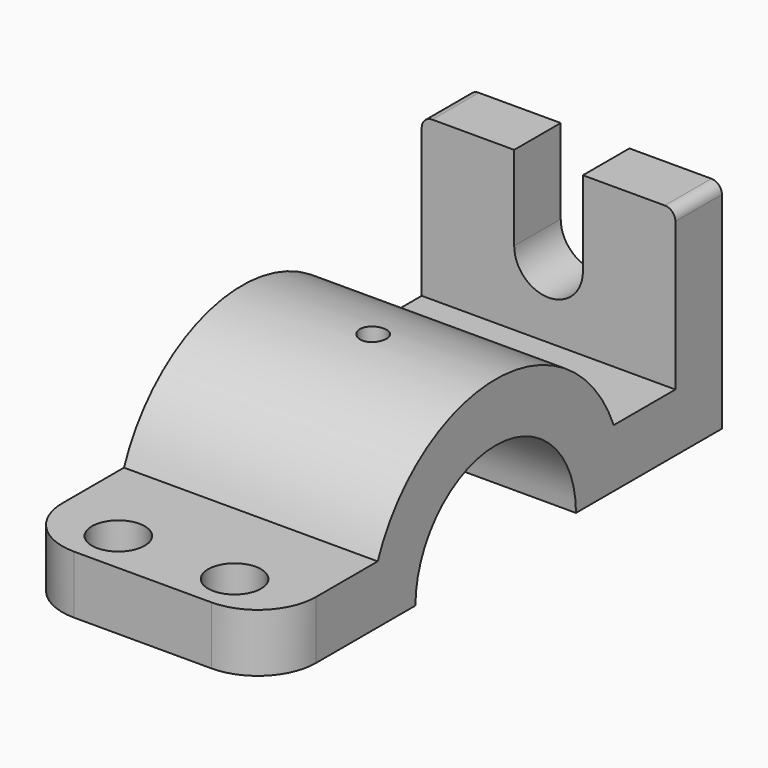
from build123d import *

# Parameters (mm, degrees)
F1_DEPTH  = 609.6
F2_R      = 50.8
F4_DEPTH  = 279.4
F5_R      = 127
F6_DEPTH  = 279.401
F7_DEPTH  = 25.4
F8_R      = 279.4
F10_R     = 63.5
F11_DEPTH = 762.001


with BuildPart() as f1:
    # F0 (on Right) → F1 (new body, symmetric)
    with BuildSketch(Plane.YZ):
        with BuildLine():
            Line((0, 279.4), (0, 0))
            Line((0, 0), (596.9, 0))
            Line((596.9, 0), (876.681, 0))
            ThreePointArc((876.681, 0), (1358.9, 482.219), (1841.119, 0))
            Line((1841.119, 0), (2120.9, 0))
            Line((2120.9, 0), (2438.4, 0))
            Line((2438.4, 0), (2717.8, 0))
            Line((2717.8, 0), (2717.8, 279.4))
            Line((2717.8, 279.4), (2717.8, 1041.4))
            Line((2717.8, 1041.4), (2438.4, 1041.4))
            Line((2438.4, 1041.4), (2438.4, 279.4))
            Line((2438.4, 279.4), (2067.8285154372, 279.4))
            ThreePointArc((2067.8285154372, 279.4), (1358.9, 762), (649.9714845628, 279.4))
            Line((649.9714845628, 279.4), (0, 279.4))
        make_face()
    extrude(amount=F1_DEPTH, both=True)

    # F2
    f2_edges = [f1.edges().sort_by_distance(p)[0] for p in [
        (609.6, 2578.1, 1041.4),
        (-609.6, 2578.1, 1041.4),
    ]]
    fillet(f2_edges, radius=F2_R)

    # F3 (on face) → F4 (cut, through all)
    with BuildSketch(Plane(origin=(0, 2717.8, 0), x_dir=(-1, 0, 0), z_dir=(0, 1, 0))):
        with BuildLine():
            Line((165.1, 1041.4), (-165.1, 1041.4))
            Line((-165.1, 1041.4), (-165.1, 635))
            ThreePointArc((-165.1, 635), (0, 469.9), (165.1, 635))
            Line((165.1, 635), (165.1, 1041.4))
        make_face()
    extrude(amount=-F4_DEPTH, mode=Mode.SUBTRACT)

    # F5 (on face) → F6 (cut, through all)
    with BuildSketch(Plane.XY.offset(279.4)):
        with Locations((-279.4, 203.2)):
            Circle(F5_R)
        with Locations((279.4, 203.2)):
            Circle(F5_R)
    extrude(amount=-F6_DEPTH, mode=Mode.SUBTRACT)

    # F5 (on face) → F7 (cut)
    with BuildSketch(Plane.XY.offset(279.4)):
        with Locations((-279.4, 203.2)):
            Circle(F5_R)
        with Locations((279.4, 203.2)):
            Circle(F5_R)
    extrude(amount=F7_DEPTH, mode=Mode.SUBTRACT)

    # F8
    f8_edges = [f1.edges().sort_by_distance(p)[0] for p in [
        (609.6, 0, 139.7),
        (-609.6, 0, 139.7),
    ]]
    fillet(f8_edges, radius=F8_R)

    # F10 (on offset) → F11 (cut, through all)
    with BuildSketch(Plane(origin=(0, 0, 762), x_dir=(1, 0, 0), z_dir=(0, 0, -1))):
        with Locations((20.8079852581, -1358.9)):
            Circle(F10_R)
    extrude(amount=F11_DEPTH, mode=Mode.SUBTRACT)


solid = f1.part
